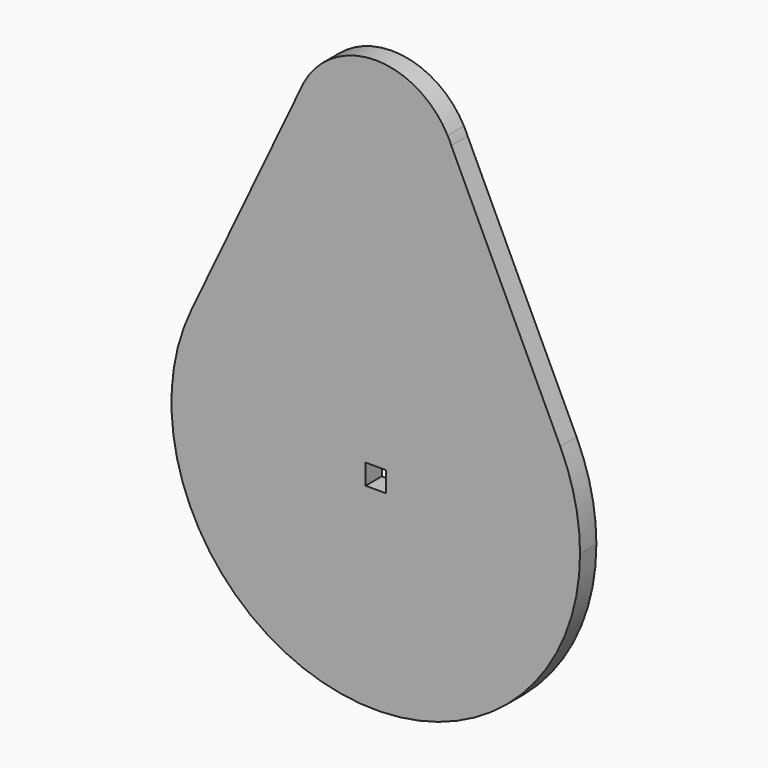
from build123d import *

# Parameters (mm, degrees)
F1_DEPTH = 3.175
F2_W     = 3.175
F2_H     = 3.175
F3_DEPTH = 3.176


with BuildPart() as f1:
    # F0 (on Front) → F1 (new body)
    with BuildSketch(Plane.XZ):
        with BuildLine():
            Line((11.1704250392, 50.4924833011), (11.7423025331, 49.2882157063))
            ThreePointArc((11.7423025331, 49.2882157063), (11.4721766161, 49.8978586334), (11.1704250392, 50.4924833011))
        make_face()
        with BuildLine():
            Line((-11.1704250392, 50.4924833011), (11.1704250392, 50.4924833011))
            ThreePointArc((11.1704250392, 50.4924833011), (0, 57.15), (-11.1704250392, 50.4924833011))
        make_face()
        with BuildLine():
            ThreePointArc((-11.1704250392, 50.4924833011), (-11.4721766161, 49.8978586334), (-11.7423025331, 49.2882157063))
            Line((-11.7423025331, 49.2882157063), (-11.1704250392, 50.4924833011))
        make_face()
        with BuildLine():
            ThreePointArc((0, 31.75), (16.965239771, 26.8373459849), (28.6804415402, 13.6196465835))
            Line((28.6804415402, 13.6196465835), (11.7423025331, 49.2882157063))
            ThreePointArc((11.7423025331, 49.2882157063), (12.4582752051, 46.9160451972), (12.7, 44.45))
            ThreePointArc((12.7, 44.45), (8.9802561211, 35.4697438789), (0, 31.75))
        make_face()
        with BuildLine():
            Line((-11.7423025331, 49.2882157063), (-28.6804415402, 13.6196465835))
            ThreePointArc((-28.6804415402, 13.6196465835), (-16.965239771, 26.8373459849), (0, 31.75))
            ThreePointArc((0, 31.75), (-10.5530881611, 37.3844264023), (-11.7423025331, 49.2882157063))
        make_face()
        with BuildLine():
            ThreePointArc((-11.7423025331, 49.2882157063), (-10.5530881611, 37.3844264023), (0, 31.75))
            ThreePointArc((0, 31.75), (8.9802561211, 35.4697438789), (12.7, 44.45))
            ThreePointArc((12.7, 44.45), (12.4582752051, 46.9160451972), (11.7423025331, 49.2882157063))
            Line((11.7423025331, 49.2882157063), (11.1704250392, 50.4924833011))
            Line((11.1704250392, 50.4924833011), (-11.1704250392, 50.4924833011))
            Line((-11.1704250392, 50.4924833011), (-11.7423025331, 49.2882157063))
        make_face()
        with BuildLine():
            ThreePointArc((-28.6804415402, 13.6196465835), (-6.9806332485, -30.9731054215), (31.75, 0))
            ThreePointArc((31.75, 0), (30.9731054215, 6.9806332485), (28.6804415402, 13.6196465835))
            ThreePointArc((28.6804415402, 13.6196465835), (16.965239771, 26.8373459849), (0, 31.75))
            ThreePointArc((0, 31.75), (-16.965239771, 26.8373459849), (-28.6804415402, 13.6196465835))
        make_face()
    extrude(amount=F1_DEPTH)

    # F2 (on face) → F3 (cut, through all)
    with BuildSketch(Plane.XZ.offset(3.175)):
        Rectangle(F2_W, F2_H)
    extrude(amount=-F3_DEPTH, mode=Mode.SUBTRACT)


solid = f1.part
